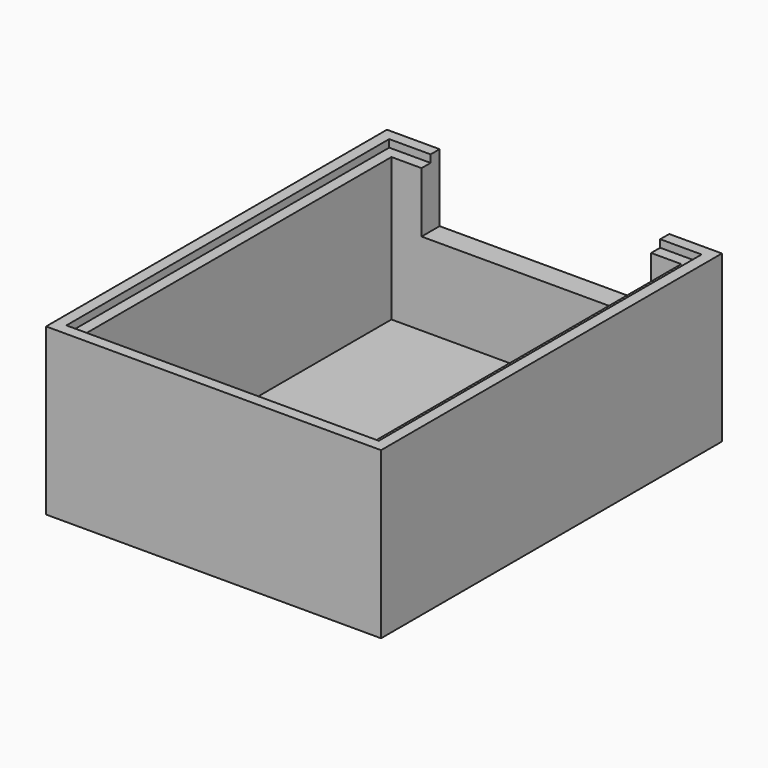
from build123d import *

# Parameters (mm, degrees)
F0_W     = 38.5
F0_H     = 50.6
F1_DEPTH = 2
F0_W_2   = 41.5
F0_H_2   = 53.6
F2_DEPTH = 21
F0_W_3   = 44.5
F0_H_3   = 56.6
F3_DEPTH = 22
F4_W     = 30.5
F4_H     = 9
F5_DEPTH = 4
F6_W     = 30.5
F6_H     = 4.5
F7_DEPTH = 4


with BuildPart() as f1:
    # F0 (on Top) → F1 (new body)
    with BuildSketch(Plane.XY):
        with Locations((-0.024678, 0.031045)):
            Rectangle(F0_W, F0_H)
    extrude(amount=F1_DEPTH)

    # F0 (on Top) → F2 (join)
    with BuildSketch(Plane.XY):
        with Locations((-0.024678, 0.031045)):
            Rectangle(F0_W_2, F0_H_2)
        with Locations((-0.024678, 0.031045)):
            Rectangle(F0_W, F0_H, mode=Mode.SUBTRACT)
    extrude(amount=F2_DEPTH)

    # F0 (on Top) → F3 (join)
    with BuildSketch(Plane.XY):
        with Locations((-0.024678, 0.031045)):
            Rectangle(F0_W_3, F0_H_3)
        with Locations((-0.024678, 0.031045)):
            Rectangle(F0_W_2, F0_H_2, mode=Mode.SUBTRACT)
    extrude(amount=F3_DEPTH)

    # F4 (on face) → F5 (cut)
    with BuildSketch(Plane(origin=(0, 28.331045, 0), x_dir=(-1, 0, 0), z_dir=(0, 1, 0))):
        with Locations((0.024678, 17.5)):
            Rectangle(F4_W, F4_H)
    extrude(amount=-F5_DEPTH, mode=Mode.SUBTRACT)

    # F6 (on face) → F7 (cut)
    with BuildSketch(Plane.XY):
        with Locations((-0.024678, -22.018955)):
            Rectangle(F6_W, F6_H)
    extrude(amount=F7_DEPTH, mode=Mode.SUBTRACT)


solid = f1.part
